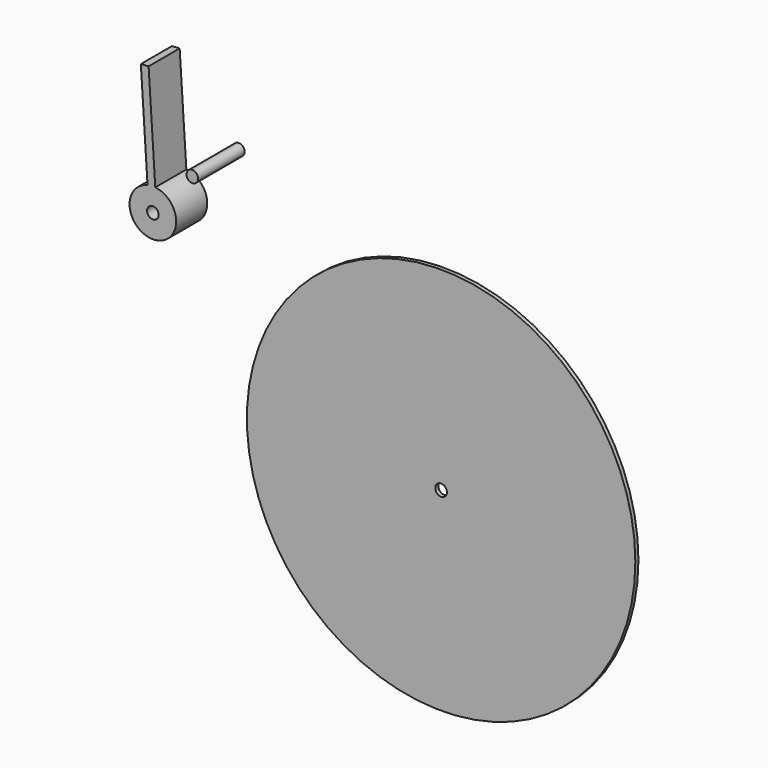
from build123d import *

# Parameters (mm, degrees)
F0_R          = 50
F1_DEPTH      = 1
F2_R          = 1.5
F3_DEPTH      = 25
F3_DEPTH_BACK = 1
F4_R          = 1.5
F5_DEPTH      = 15
F6_R          = 6
F8_DEPTH      = 10
F9_R          = 1.5
F10_DEPTH     = 8
F13_DEPTH     = 10


with BuildPart() as f1:
    # F0 (on Front) → F1 (new body)
    with BuildSketch(Plane.XZ):
        Circle(F0_R)
    extrude(amount=F1_DEPTH)

    # F2 (on Front) → F3 (cut, two sides)
    with BuildSketch(Plane.XZ) as f3_sk:
        Circle(F2_R)
    extrude(amount=-F3_DEPTH, mode=Mode.SUBTRACT)
    extrude(f3_sk.sketch, amount=F3_DEPTH_BACK, mode=Mode.SUBTRACT)


with BuildPart() as f5:
    # F4 (on Front) → F5 (new body)
    with BuildSketch(Plane.XZ):
        with Locations((-52.8595931828, 59.5719181001)):
            Circle(F4_R)
    extrude(amount=F5_DEPTH)


with BuildPart() as f8:
    # F6 (on Front) → F8 (new body)
    with BuildSketch(Plane.XZ):
        with Locations((-67.003428936, 44.7089038789)):
            Circle(F6_R)
    extrude(amount=F8_DEPTH)

    # F9 (on face) → F10 (cut, through all)
    with BuildSketch(Plane.XZ.offset(10)):
        with Locations((-67.003428936, 44.7089038789)):
            Circle(F9_R)
    extrude(amount=-F10_DEPTH, mode=Mode.SUBTRACT)

    # F12 (on Front) → F13 (join, through all)
    with BuildSketch(Plane.XZ):
        Polygon((-68.1013876257, 77.554673188), (-69.0993500163, 77.4908682742), (-70.0973124069, 77.4270633604), (-68.378866287, 50.5491240883), (-66.3829415059, 50.6767339158), align=None)
    extrude(amount=F13_DEPTH)


solid = Compound([f1.part, f5.part, f8.part])
